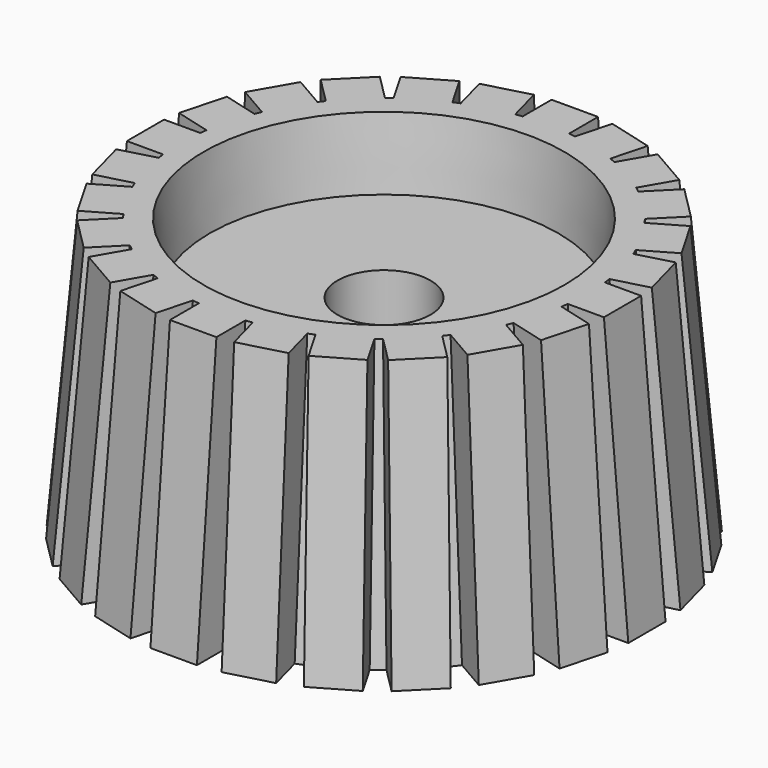
from build123d import *

# Parameters (mm, degrees)
F3_DEPTH      = 1
F3_DEPTH_BACK = 1
F4_COUNT      = 24
F4_ANGLE      = 345
F5_R          = 2
F6_DEPTH      = 25


with BuildPart() as f1:
    # F0 (on Front) → F1 (revolve)
    with BuildSketch(Plane.XZ):
        Polygon((7.5, 0), (0, 0), (0, -6), (7.5, -6), (8.8123299529, -9), (9.8123299529, -9), (8.7624659906, 3), (7.7624659906, 3), align=None)
    revolve(axis=Axis((0, 0, -3), (0, 0, 1)))

    # F2 (on Front) → F3 (join, two sides)
    with BuildSketch(Plane.XZ) as f3_sk:
        Polygon((10.2624659906, 3), (8.7624659906, 3), (7.7624659906, 3), (8.8123299529, -9), (9.8123299529, -9), (11.3123299529, -9), align=None)
    extrude(amount=F3_DEPTH)
    extrude(f3_sk.sketch, amount=-F3_DEPTH_BACK)

    # F4: F1 ×24 about axis
    f4_axis = Axis((0, 0, 3), (0, 0, 1))


with BuildPart() as f1_1:
    add(f1.part)
    for i in range(1, F4_COUNT):
        add(f1.part.rotate(f4_axis, i * F4_ANGLE / (F4_COUNT - 1)))

    # F5 (on face) → F6 (cut)
    with BuildSketch(Plane.XY):
        Circle(F5_R)
    extrude(amount=-F6_DEPTH, mode=Mode.SUBTRACT)


solid = f1_1.part
